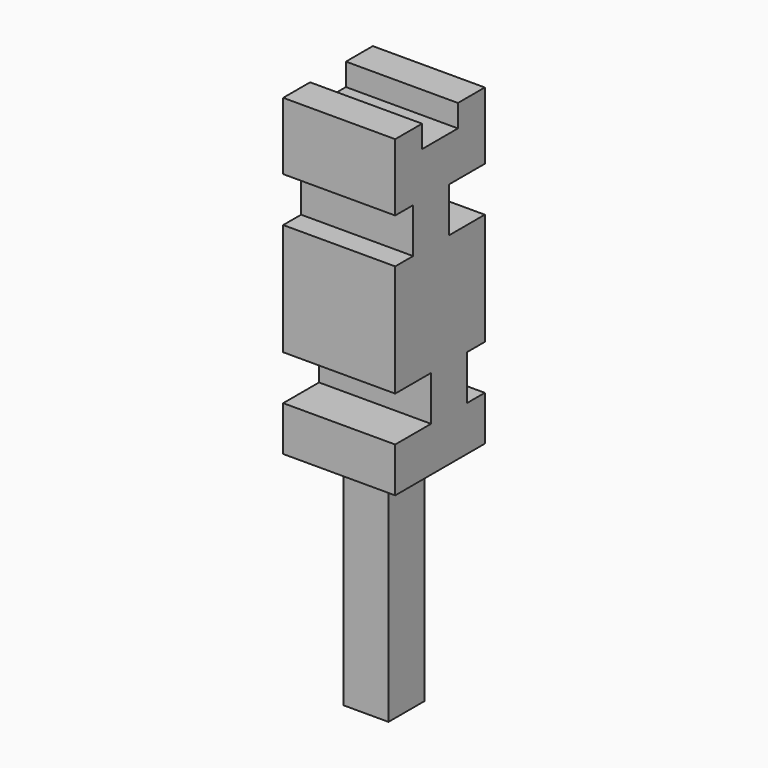
from build123d import *

# Parameters (mm, degrees)
F0_W     = 31.75
F0_H     = 31.75
F1_DEPTH = 44.45
F2_W     = 12.7
F2_H     = 12.7
F3_DEPTH = 63.5
F4_W     = 31.75
F4_H     = 12.7
F5_DEPTH = 6.35
F6_W     = 12.7
F6_H     = 12.7
F6_W_2   = 6.35
F7_DEPTH = 31.75


with BuildPart() as f1:
    # F0 (on Top) → F1 (new body, symmetric)
    with BuildSketch(Plane.XY):
        Rectangle(F0_W, F0_H)
    extrude(amount=F1_DEPTH, both=True)

    # F2 (on face) → F3 (join)
    with BuildSketch(Plane(origin=(0, 0, -44.45), x_dir=(1, 0, 0), z_dir=(0, 0, -1))):
        Rectangle(F2_W, F2_H)
    extrude(amount=F3_DEPTH)

    # F4 (on face) → F5 (cut)
    with BuildSketch(Plane.XY.offset(44.45)):
        Rectangle(F4_W, F4_H)
    extrude(amount=-F5_DEPTH, mode=Mode.SUBTRACT)

    # F6 (on face) → F7 (cut, through all)
    with BuildSketch(Plane.YZ.offset(15.875)):
        with Locations((9.525, 19.05)):
            Rectangle(F6_W, F6_H)
        with Locations((12.7, -25.4)):
            Rectangle(F6_W_2, F6_H)
        with Locations((-9.525, -25.4)):
            Rectangle(F6_W, F6_H)
        with Locations((-12.7, 19.05)):
            Rectangle(F6_W_2, F6_H)
    extrude(amount=-F7_DEPTH, mode=Mode.SUBTRACT)


solid = f1.part
